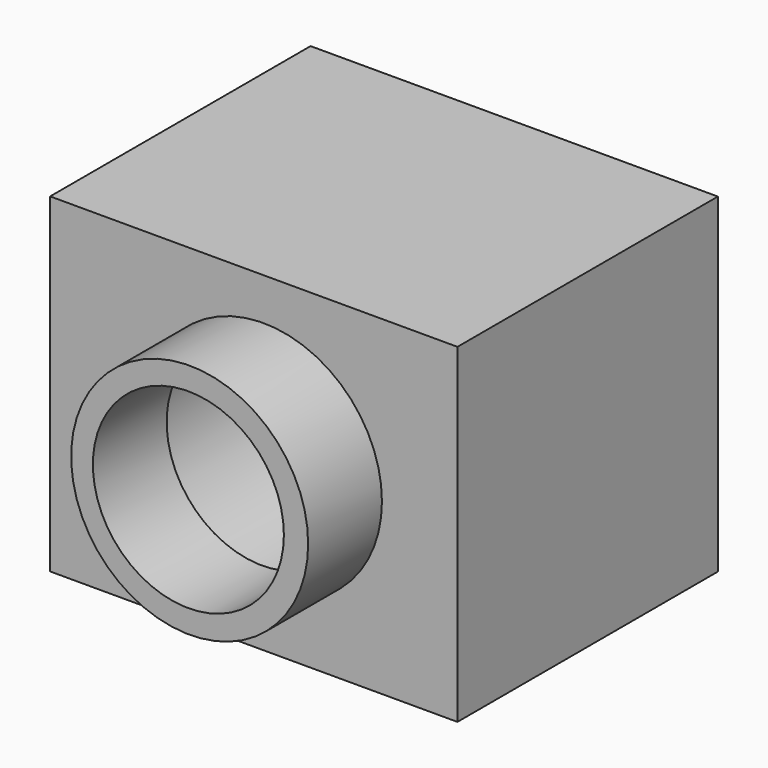
from build123d import *

# Parameters (mm, degrees)
F0_W     = 95.350262
F0_H     = 77.302896
F1_DEPTH = 76.2
F3_R     = 27.741206
F3_R_2   = 22.357784
F4_DEPTH = 21.59
F2_R     = 27.741206
F5_DEPTH = 76.201


with BuildPart() as f1:
    # F0 (on Front) → F1 (new body)
    with BuildSketch(Plane.XZ):
        with Locations((3.158288, -4.662238)):
            Rectangle(F0_W, F0_H)
    extrude(amount=F1_DEPTH)

    # F3 (on face) → F4 (join, symmetric)
    with BuildSketch(Plane.XZ.offset(76.2)):
        with Locations((5.414211, -3.609474)):
            Circle(F3_R)
        with Locations((5.113423, -3.609474)):
            Circle(F3_R_2, mode=Mode.SUBTRACT)
    extrude(amount=F4_DEPTH, both=True)

    # F2 (on face) → F5 (cut, through all)
    with BuildSketch(Plane.XZ.offset(76.2)):
        with Locations((5.414211, -3.609474)):
            Circle(F2_R)
    extrude(amount=-F5_DEPTH, mode=Mode.SUBTRACT)


solid = f1.part
